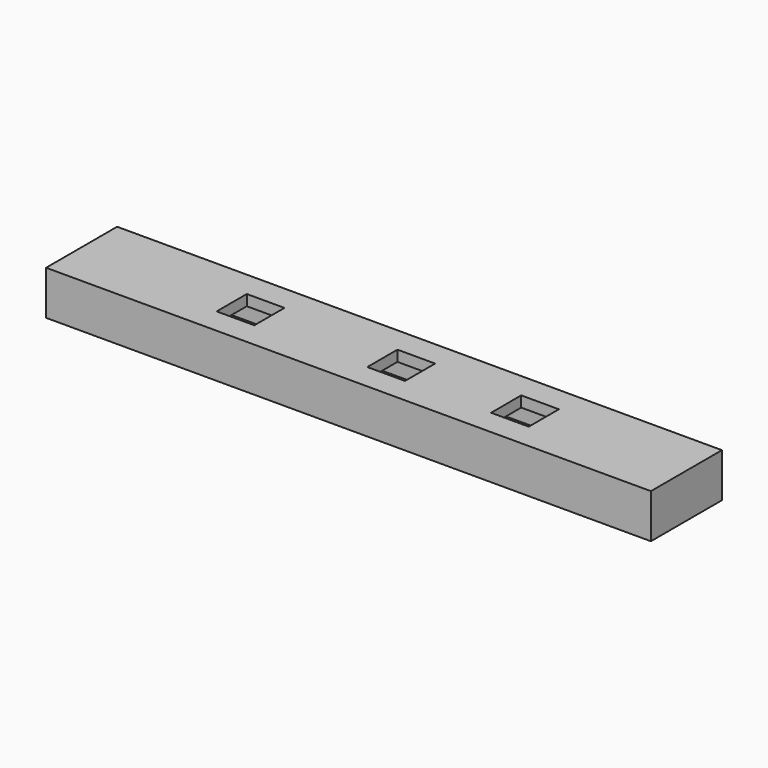
from build123d import *

# Parameters (mm, degrees)
F2_W     = 110.4
F2_H     = 12.5
F2_W_2   = 7
F2_H_2   = 7
F3_DEPTH = 2
F4_DEPTH = 2
F5_DEPTH = 2
F6_W     = 2
F6_H     = 4.2
F7_DEPTH = 110.4
F8_W     = 16.5
F8_H     = 8.2
F9_DEPTH = 2


with BuildPart() as f3:
    # F2 (on Top) → F3 (new body)
    with BuildSketch(Plane.XY):
        Rectangle(F2_W, F2_H)
        with Locations((-23.8, 0)):
            Rectangle(F2_W_2, F2_H_2, mode=Mode.SUBTRACT)
        with Locations((4.2, 0)):
            Rectangle(F2_W_2, F2_H_2, mode=Mode.SUBTRACT)
        with Locations((27.2, 0)):
            Rectangle(F2_W_2, F2_H_2, mode=Mode.SUBTRACT)
    extrude(amount=F3_DEPTH)

    # F4 (add): a face of the model
    f4_faces = [f3.faces().sort_by_distance(p)[0] for p in [
        (0, -6.25, 1),
    ]]
    extrude(f4_faces, amount=F4_DEPTH)

    # F5 (add): a face of the model
    f5_faces = [f3.faces().sort_by_distance(p)[0] for p in [
        (0, 6.25, 1),
    ]]
    extrude(f5_faces, amount=F5_DEPTH)

    # F6 (on face) → F7 (join)
    with BuildSketch(Plane(origin=(-55.2, 0, 0), x_dir=(0, -1, 0), z_dir=(-1, 0, 0))):
        with Locations((7.25, -2.1)):
            Rectangle(F6_W, F6_H)
        Polygon((-6.25, -4.2), (-8.25, -4.2), (-8.25, -6.2), (8.25, -6.2), (8.25, -4.2), (6.25, -4.2), align=None)
        with Locations((-7.25, -2.1)):
            Rectangle(F6_W, F6_H)
    extrude(amount=-F7_DEPTH)

    # F8 (on face) → F9 (join)
    with BuildSketch(Plane.YZ.offset(55.2)):
        with Locations((0, -2.1)):
            Rectangle(F8_W, F8_H)
    extrude(amount=F9_DEPTH)


solid = f3.part
